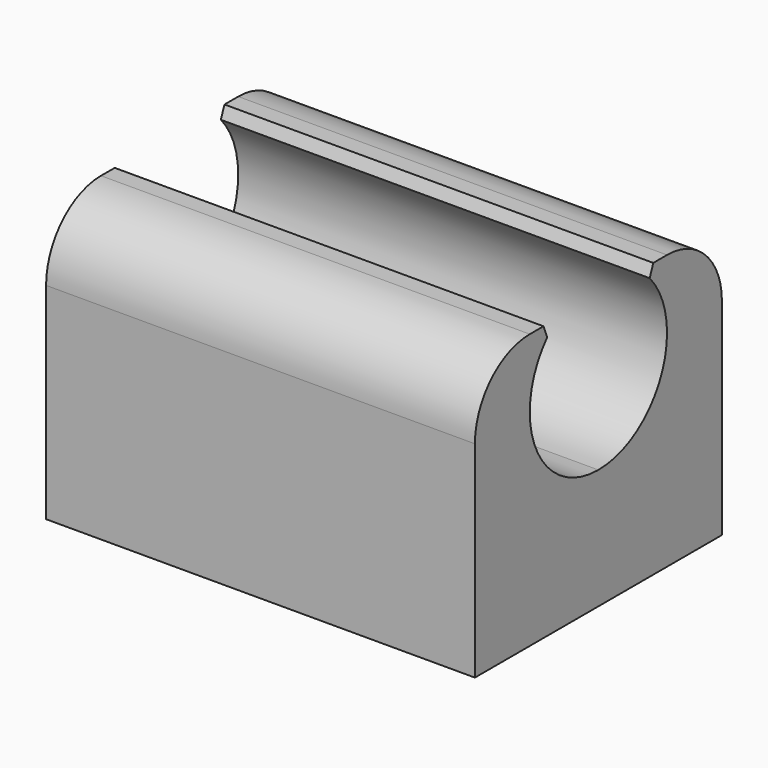
from build123d import *

# Parameters (mm, degrees)
CYLINDER_R           = 5
CYLINDER_DEPTH       = 200
CYLINDER_PITCH_ANGLE = 90
BOX004_W             = 25
BOX004_H             = 18
BOX004_DEPTH         = 16
SKETCH005_R          = 1.45
POCKET005_DEPTH      = 10
FILLET001_R          = 4
CHAMFER003_SIZE      = 1


with BuildPart() as cylinder:
    # Cylinder → Cylinder (new body)
    with BuildSketch(Plane.XY):
        Circle(CYLINDER_R)
    extrude(amount=CYLINDER_DEPTH)


with BuildPart() as cylinder_1:
    # Cylinder pitch: moved
    add(cylinder.part.rotate(Axis((0, 0, 0), (0, 1, 0)), CYLINDER_PITCH_ANGLE))


with BuildPart() as cylinder_2:
    # Cylinder placement: moved
    add(cylinder_1.part.moved(Location((0, 121, 20))))


with BuildPart() as chamfer003:
    # Box004 → Box004 (new body)
    with BuildSketch(Plane(origin=(43.5, 112, 8), x_dir=(1, 0, 0), z_dir=(0, 0, 1))):
        with Locations((12.5, 9)):
            Rectangle(BOX004_W, BOX004_H)
    extrude(amount=BOX004_DEPTH)

    # Sketch005 → Pocket005 (cut)
    with BuildSketch(Plane(origin=(43.5, 112, 8), x_dir=(1, 0, 0), z_dir=(0, 0, -1))):
        with Locations((12.5, -3.5)):
            Circle(SKETCH005_R)
        with Locations((12.5, -14.5)):
            Circle(SKETCH005_R)
    extrude(amount=-POCKET005_DEPTH, mode=Mode.SUBTRACT)

    # Cut: cut Cylinder
    add(cylinder_2.part, mode=Mode.SUBTRACT)


with BuildPart() as chamfer003_1:
    # Cut placement: moved
    add(chamfer003.part.moved(Location((0, -20, 0))))

    # Fillet001
    fillet001_edges = [chamfer003_1.edges().sort_by_distance(p)[0] for p in [
        (56, 110, 24),
        (56, 92, 24),
    ]]
    fillet(fillet001_edges, radius=FILLET001_R)

    # Chamfer003
    chamfer003_edges = [chamfer003_1.edges().sort_by_distance(p)[0] for p in [
        (56, 104, 24),
        (56, 98, 24),
    ]]
    chamfer(chamfer003_edges, length=CHAMFER003_SIZE)


solid = chamfer003_1.part
